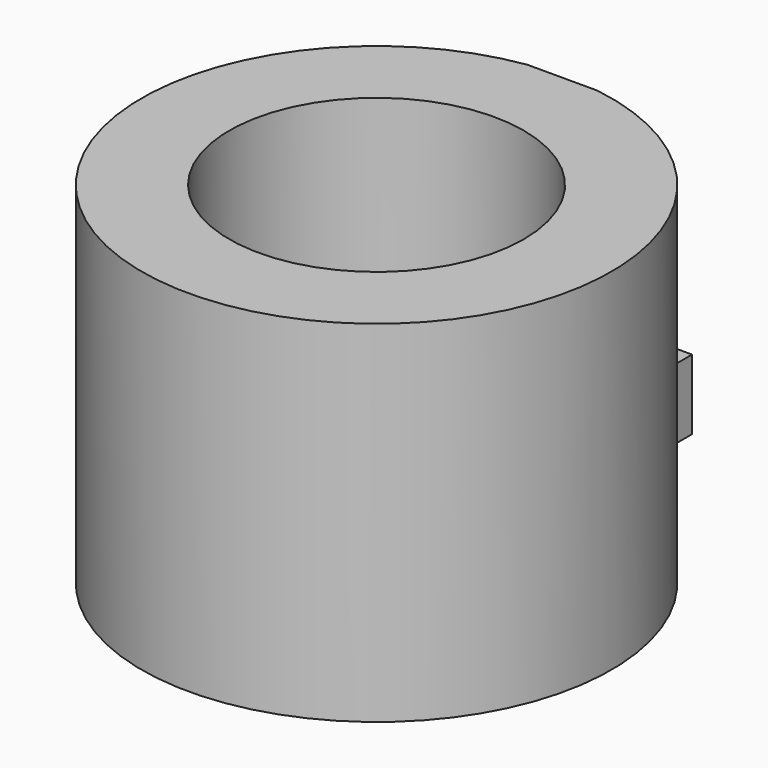
from build123d import *

# Parameters (mm, degrees)
F0_R     = 10.668
F1_DEPTH = 25.4
F3_DEPTH = 12.7


with BuildPart() as f1:
    # F0 (on Top) → F1 (new body)
    with BuildSketch(Plane.XY):
        with BuildLine():
            Line((-2.54, 25.4), (-2.54, 16.8273801883))
            ThreePointArc((-2.54, 16.8273801883), (0, -17.018), (2.54, 16.8273801883))
            Line((2.54, 16.8273801883), (2.54, 25.4))
            Line((2.54, 25.4), (-2.54, 25.4))
        make_face()
        Circle(F0_R, mode=Mode.SUBTRACT)
    extrude(amount=F1_DEPTH)

    # F2 (on Right) → F3 (cut, symmetric)
    with BuildSketch(Plane.YZ):
        Polygon((23.3045, 5.08), (25.4, 5.08), (25.4, 0), (25.4, -8.07502307), (34.9588990211, -8.07502307), (34.9588990211, 29.4091364962), (16.8273801883, 29.4091364962), (16.8273801883, 20.32), (19.1135, 20.32), (19.1135, 15.24), (21.209, 15.24), (21.209, 10.16), (23.3045, 10.16), align=None)
    extrude(amount=F3_DEPTH, both=True, mode=Mode.SUBTRACT)


solid = f1.part
